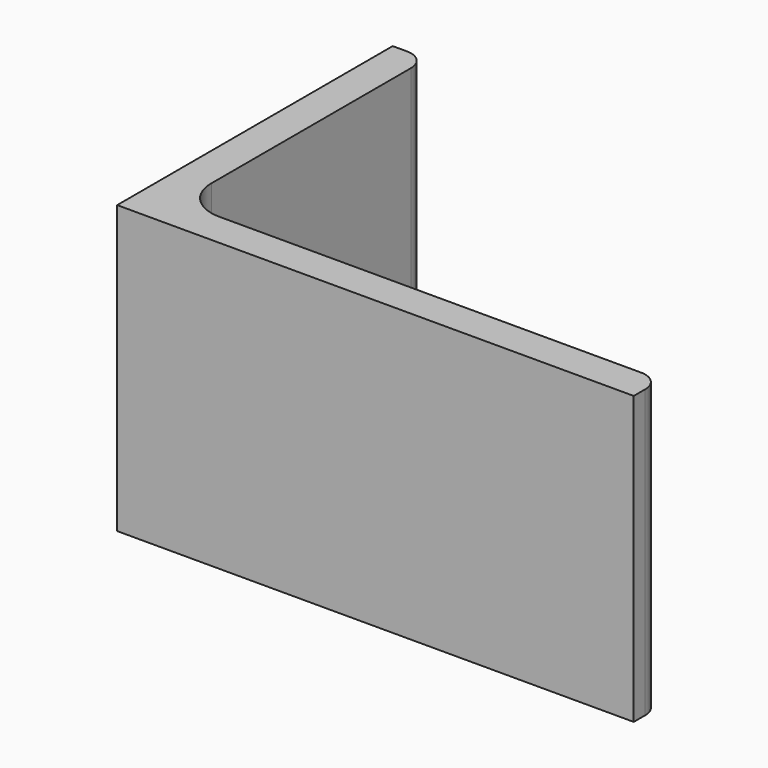
from build123d import *

# Parameters (mm, degrees)
EXTRUDE_DEPTH = 50


with BuildPart() as part:
    # Sketch → Extrude (new body)
    with BuildSketch(Plane.XY):
        with BuildLine():
            Line((0, 0), (90, 0))
            Line((90, 0), (90, 2.5))
            ThreePointArc((90, 2.5), (88.974874, 4.974874), (86.5, 6))
            Line((86.5, 6), (13, 6))
            ThreePointArc((6, 13), (8.050253, 8.050253), (13, 6))
            Line((6, 56.5), (6, 13))
            ThreePointArc((6, 56.5), (4.974874, 58.974874), (2.5, 60))
            Line((0, 60), (2.5, 60))
            Line((0, 0), (0, 60))
        make_face()
    extrude(amount=EXTRUDE_DEPTH)


solid = part.part
